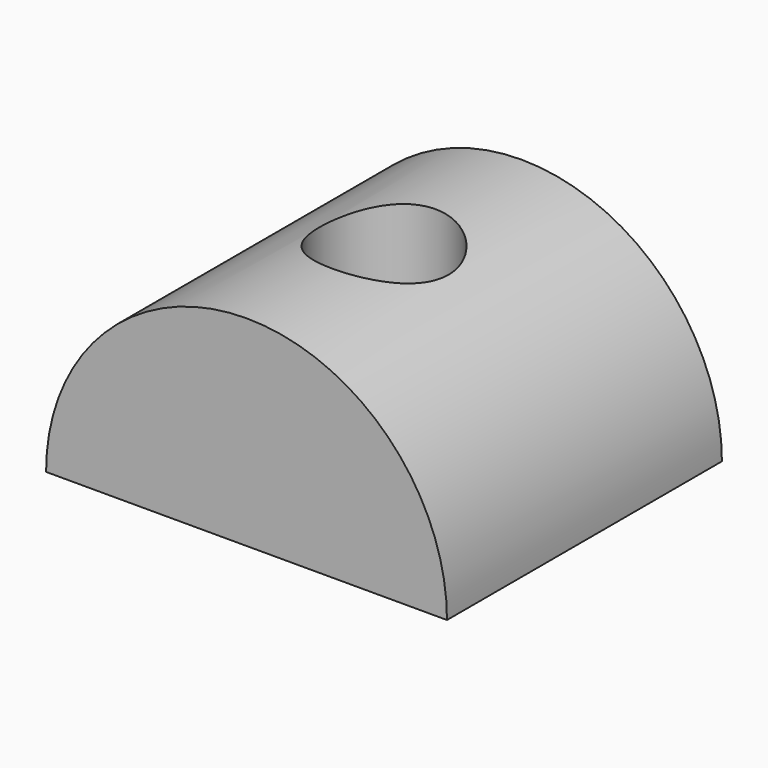
from build123d import *

# Parameters (mm, degrees)
F2_DEPTH  = 9.525
F0_R      = 3.571875
F3_DEPTH  = 2.032
F3_FACE_R = 3.571875
F4_DEPTH  = 25.4


with BuildPart() as f2:
    # F1 (on Front) → F2 (new body, symmetric)
    with BuildSketch(Plane.XZ):
        with BuildLine():
            Line((-11.1125, 0), (11.1125, 0))
            ThreePointArc((11.1125, 0), (0, 11.1125), (-11.1125, 0))
        make_face()
    extrude(amount=F2_DEPTH, both=True)

    # F0 (on Top) → F3 (cut)
    with BuildSketch(Plane.XY):
        Polygon((5.55625, -3.207902), (5.55625, 3.207902), (0, 6.415805), (-5.55625, 3.207902), (-5.55625, -3.207902), (0, -6.415805), align=None)
        Circle(F0_R, mode=Mode.SUBTRACT)
    extrude(amount=F3_DEPTH, mode=Mode.SUBTRACT)

    # F3_face (on face) → F4 (cut)
    with BuildSketch(Plane(origin=(0, 0, 0), x_dir=(1, 0, 0), z_dir=(0, 0, -1))):
        Circle(F3_FACE_R)
    extrude(amount=-F4_DEPTH, mode=Mode.SUBTRACT)


solid = f2.part
